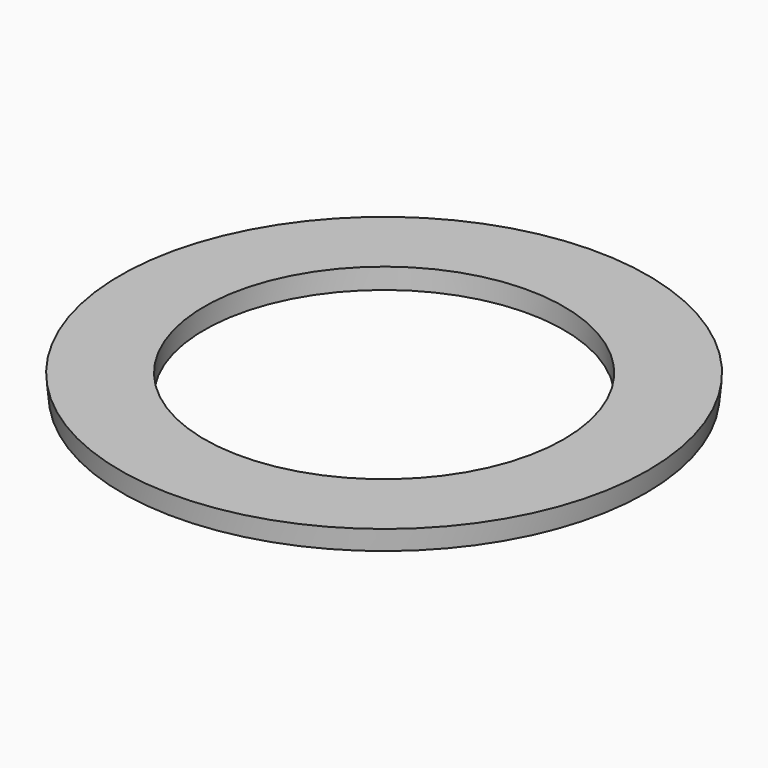
from build123d import *

# Parameters (mm, degrees)
CYLINDER009_R     = 17.5
CYLINDER009_DEPTH = 10


with BuildPart() as cylinder009:
    # Cylinder009 → Cylinder009 (new body)
    with BuildSketch(Plane.XY):
        Circle(CYLINDER009_R)
    extrude(amount=CYLINDER009_DEPTH)


with BuildPart() as cut009:
    # Cone008 → Cone008 (revolve)
    with BuildSketch(Plane.XZ):
        Polygon((0, 0), (25.5, 0), (25.7, 2), (0, 2), align=None)
    revolve(axis=Axis((0, 0, 0), (0, 0, 1)))

    # Cut009: cut Cylinder009
    add(cylinder009.part, mode=Mode.SUBTRACT)


solid = cut009.part
